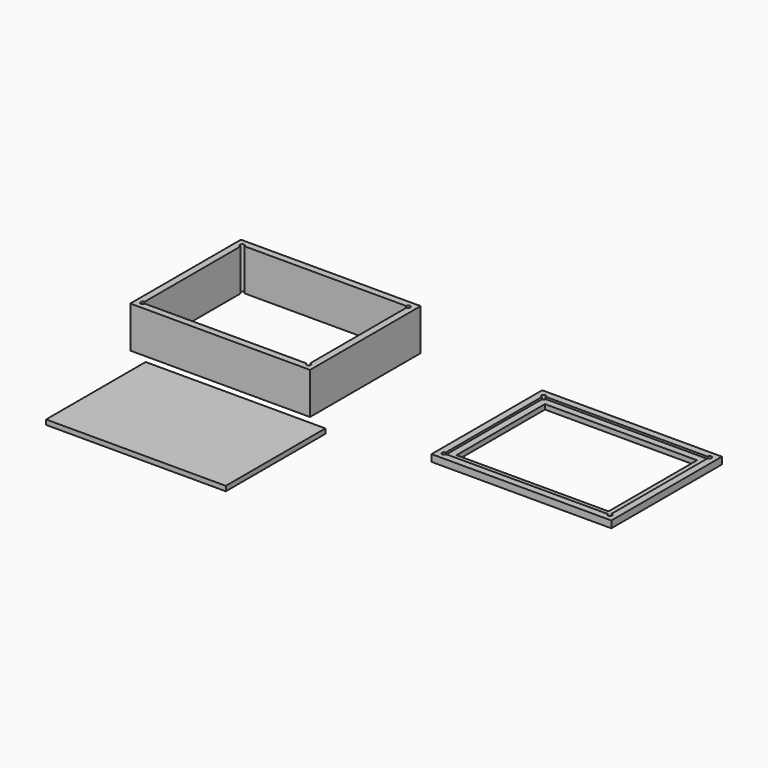
from build123d import *

# Parameters (mm, degrees)
F0_W     = 139.7
F0_H     = 101.6
F1_DEPTH = 4.445
F0_W_2   = 165.1
F0_H_2   = 127
F2_DEPTH = 6.35
F3_W     = 165.1
F3_H     = 127
F4_DEPTH = 38.1
F5_W     = 165.1
F5_H     = 114.3
F6_DEPTH = 4.445


with BuildPart() as f1:
    # F0 (on Top) → F1 (new body)
    with BuildSketch(Plane.XY):
        with BuildLine():
            ThreePointArc((76.2, -55.245), (74.8529615818, -55.8029615818), (74.295, -57.15))
            Line((74.295, -57.15), (76.2, -57.15))
            Line((76.2, -57.15), (76.2, -55.245))
        make_face()
        with BuildLine():
            ThreePointArc((-76.2, -55.245), (-74.8529615818, -55.8029615818), (-74.295, -57.15))
            Line((-74.295, -57.15), (74.295, -57.15))
            ThreePointArc((74.295, -57.15), (74.8529615818, -55.8029615818), (76.2, -55.245))
            Line((76.2, -55.245), (76.2, 55.245))
            ThreePointArc((76.2, 55.245), (74.8529615818, 55.8029615818), (74.295, 57.15))
            Line((74.295, 57.15), (-74.295, 57.15))
            ThreePointArc((-74.295, 57.15), (-74.8529615818, 55.8029615818), (-76.2, 55.245))
            Line((-76.2, 55.245), (-76.2, -55.245))
        make_face()
        Rectangle(F0_W, F0_H, mode=Mode.SUBTRACT)
        with BuildLine():
            Line((-76.2, -57.15), (-74.295, -57.15))
            ThreePointArc((-74.295, -57.15), (-74.8529615818, -55.8029615818), (-76.2, -55.245))
            Line((-76.2, -55.245), (-76.2, -57.15))
        make_face()
        with BuildLine():
            ThreePointArc((-76.2, -55.245), (-74.8529615818, -55.8029615818), (-74.295, -57.15))
            Line((-74.295, -57.15), (74.295, -57.15))
            ThreePointArc((74.295, -57.15), (74.8529615818, -55.8029615818), (76.2, -55.245))
            Line((76.2, -55.245), (76.2, 55.245))
            ThreePointArc((76.2, 55.245), (74.8529615818, 55.8029615818), (74.295, 57.15))
            Line((74.295, 57.15), (-74.295, 57.15))
            ThreePointArc((-74.295, 57.15), (-74.8529615818, 55.8029615818), (-76.2, 55.245))
            Line((-76.2, 55.245), (-76.2, -55.245))
        make_face()
        Rectangle(F0_W, F0_H, mode=Mode.SUBTRACT)
    extrude(amount=F1_DEPTH)

    # F0 (on Top) → F2 (join)
    with BuildSketch(Plane.XY):
        Rectangle(F0_W_2, F0_H_2)
        with BuildLine():
            Line((74.295, -57.15), (-74.295, -57.15))
            ThreePointArc((-74.295, -57.15), (-77.5470384182, -58.4970384182), (-76.2, -55.245))
            Line((-76.2, -55.245), (-76.2, 55.245))
            ThreePointArc((-76.2, 55.245), (-77.5470384182, 58.4970384182), (-74.295, 57.15))
            Line((-74.295, 57.15), (74.295, 57.15))
            ThreePointArc((74.295, 57.15), (76.2, 59.055), (78.105, 57.15))
            ThreePointArc((78.105, 57.15), (77.5470384182, 55.8029615818), (76.2, 55.245))
            Line((76.2, 55.245), (76.2, -55.245))
            ThreePointArc((76.2, -55.245), (77.5470384182, -55.8029615818), (78.105, -57.15))
            ThreePointArc((78.105, -57.15), (76.2, -59.055), (74.295, -57.15))
        make_face(mode=Mode.SUBTRACT)
    extrude(amount=F2_DEPTH)


with BuildPart() as f4:
    # F3 (on Top) → F4 (new body)
    with BuildSketch(Plane.XY):
        with Locations((-276.7637000168, 0)):
            Rectangle(F3_W, F3_H)
        with BuildLine():
            Line((-202.4687000168, -57.15), (-351.0587000168, -57.15))
            ThreePointArc((-351.0587000168, -57.15), (-354.3107384349, -58.4970384182), (-352.9637000168, -55.245))
            Line((-352.9637000168, -55.245), (-352.9637000168, 55.245))
            ThreePointArc((-352.9637000168, 55.245), (-354.3107384349, 58.4970384182), (-351.0587000168, 57.15))
            Line((-351.0587000168, 57.15), (-202.4687000168, 57.15))
            ThreePointArc((-202.4687000168, 57.15), (-200.5637000168, 59.055), (-198.6587000168, 57.15))
            ThreePointArc((-198.6587000168, 57.15), (-199.2166615986, 55.8029615818), (-200.5637000168, 55.245))
            Line((-200.5637000168, 55.245), (-200.5637000168, -55.245))
            ThreePointArc((-200.5637000168, -55.245), (-199.2166615986, -55.8029615818), (-198.6587000168, -57.15))
            ThreePointArc((-198.6587000168, -57.15), (-200.5637000168, -59.055), (-202.4687000168, -57.15))
        make_face(mode=Mode.SUBTRACT)
    extrude(amount=F4_DEPTH)


with BuildPart() as f6:
    # F5 (on Top) → F6 (new body)
    with BuildSketch(Plane.XY):
        with Locations((-251.817983162, -134.2107951641)):
            Rectangle(F5_W, F5_H)
    extrude(amount=F6_DEPTH)


solid = Compound([f1.part, f4.part, f6.part])
